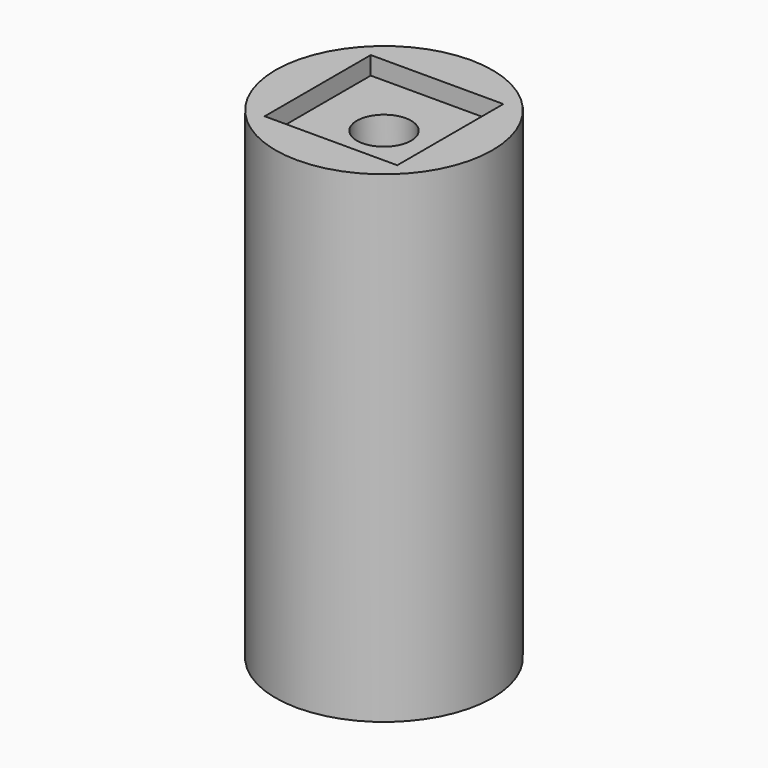
from build123d import *

# Parameters (mm, degrees)
SKETCH_R        = 9
PAD_DEPTH       = 40
SKETCH001_W     = 11
SKETCH001_H     = 11
POCKET_DEPTH    = 1.5
SKETCH002_W     = 11
SKETCH002_H     = 11
POCKET001_DEPTH = 1.5
SKETCH003_R     = 2.25
POCKET002_DEPTH = 12
SKETCH004_R     = 2.25
POCKET003_DEPTH = 12
SKETCH005_W     = 8
SKETCH005_H     = 4
POCKET004_DEPTH = 20


with BuildPart() as part:
    # Sketch → Pad (new body)
    with BuildSketch(Plane.XY):
        Circle(SKETCH_R)
    extrude(amount=PAD_DEPTH)

    # Sketch001 (on Face3 of Pad) → Pocket (cut)
    with BuildSketch(Plane.XY.offset(40)):
        Rectangle(SKETCH001_W, SKETCH001_H)
    extrude(amount=-POCKET_DEPTH, mode=Mode.SUBTRACT)

    # Sketch002 (on Face2 of Pocket) → Pocket001 (cut)
    with BuildSketch(Plane(origin=(0, 0, 0), x_dir=(1, 0, 0), z_dir=(0, 0, -1))):
        Rectangle(SKETCH002_W, SKETCH002_H)
    extrude(amount=-POCKET001_DEPTH, mode=Mode.SUBTRACT)

    # Sketch003 (on Face12 of Pocket001) → Pocket002 (cut)
    with BuildSketch(Plane(origin=(0, 0, 1.5), x_dir=(1, 0, 0), z_dir=(0, 0, -1))):
        Circle(SKETCH003_R)
    extrude(amount=-POCKET002_DEPTH, mode=Mode.SUBTRACT)

    # Sketch004 (on Face13 of Pocket001) → Pocket003 (cut)
    with BuildSketch(Plane.XY.offset(38.5)):
        Circle(SKETCH004_R)
    extrude(amount=-POCKET003_DEPTH, mode=Mode.SUBTRACT)

    # Sketch005 → Pocket004 (cut)
    with BuildSketch(Plane.XZ.offset(4.5)):
        with Locations((0, 6)):
            Rectangle(SKETCH005_W, SKETCH005_H)
        with Locations((0, 34)):
            Rectangle(SKETCH005_W, SKETCH005_H)
    extrude(amount=-POCKET004_DEPTH, mode=Mode.SUBTRACT)


solid = part.part
